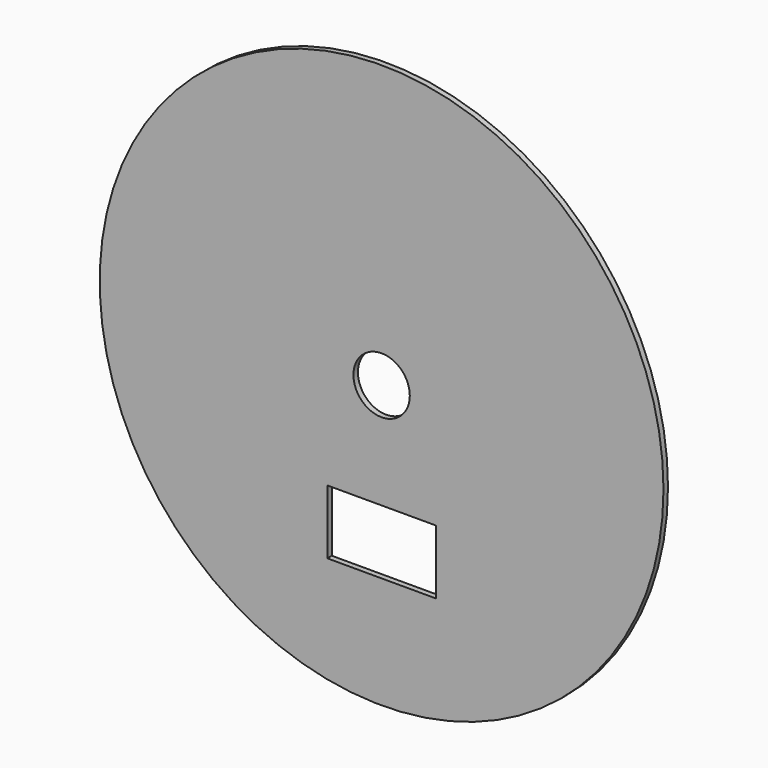
from build123d import *

# Parameters (mm, degrees)
F0_R     = 50
F0_W     = 19.26925
F0_H     = 11.389703
F0_R_2   = 5
F1_DEPTH = 0.5


with BuildPart() as f1:
    # F0 (on Front) → F1 (new body, symmetric)
    with BuildSketch(Plane.XZ):
        Circle(F0_R)
        with Locations((0, -24.459531)):
            Rectangle(F0_W, F0_H, mode=Mode.SUBTRACT)
        Circle(F0_R_2, mode=Mode.SUBTRACT)
    extrude(amount=F1_DEPTH, both=True)


solid = f1.part
